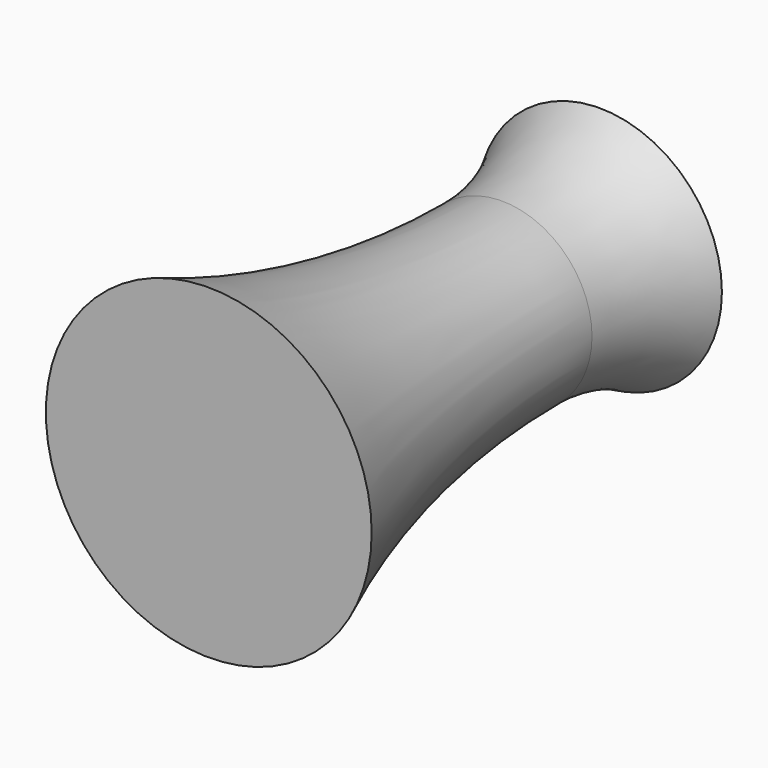
from build123d import *


with BuildPart() as f1:
    # F0 (on Top) → F1 (revolve)
    with BuildSketch(Plane.XY):
        with BuildLine():
            Line((0, 60), (0, 0))
            Line((0, 0), (20, 0))
            ThreePointArc((20, 0), (13.312191, 22.059695), (11.054026, 45))
            ThreePointArc((11.054026, 45), (12.057021, 52.755171), (15, 60))
            Line((15, 60), (0, 60))
        make_face()
    revolve(axis=Axis((0, 30, 0), (0, 1, 0)))


solid = f1.part
